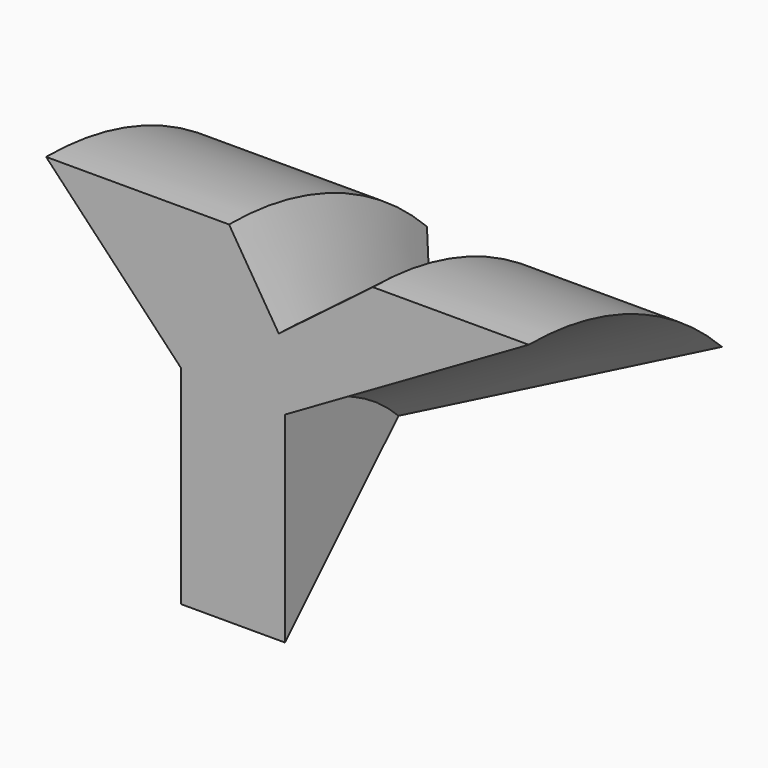
from build123d import *

# Parameters (mm, degrees)
F1_ANGLE = 45


with BuildPart() as f1:
    # F0 (on Front) → F1 (revolve)
    with BuildSketch(Plane.XZ):
        Polygon((0, 25.4), (0, 0), (12.7, 0), (12.7, 24.531622), (42.501195, 41.73735), (23.451195, 41.73735), (11.940171, 32.998289), (5.861538, 42.767522), (-16.499144, 42.767522), align=None)
    revolve(axis=Axis((6.35, 0, 0), (-1, 0, 0)), revolution_arc=F1_ANGLE)


solid = f1.part
